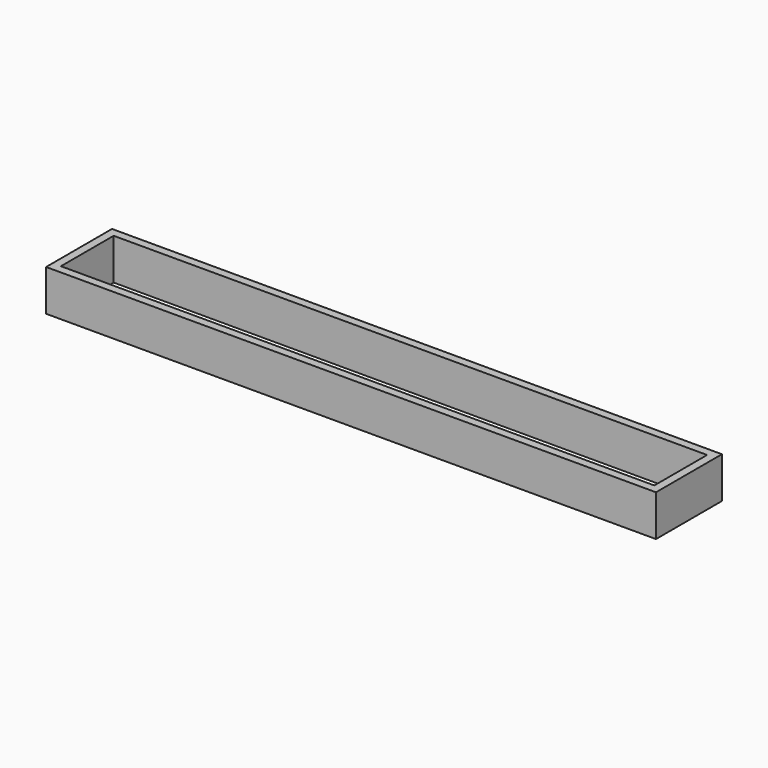
from build123d import *

# Parameters (mm, degrees)
F0_W     = 74
F0_H     = 5
F1_DEPTH = 10
F2_W     = 72
F2_H     = 8
F3_DEPTH = 16.7


with BuildPart() as f1:
    # F0 (on Front) → F1 (new body)
    with BuildSketch(Plane.XZ):
        with Locations((0, 2.5)):
            Rectangle(F0_W, F0_H)
    extrude(amount=F1_DEPTH)

    # F2 (on Top) → F3 (cut)
    with BuildSketch(Plane.XY):
        with Locations((0, -5)):
            Rectangle(F2_W, F2_H)
    extrude(amount=F3_DEPTH, mode=Mode.SUBTRACT)


solid = f1.part
